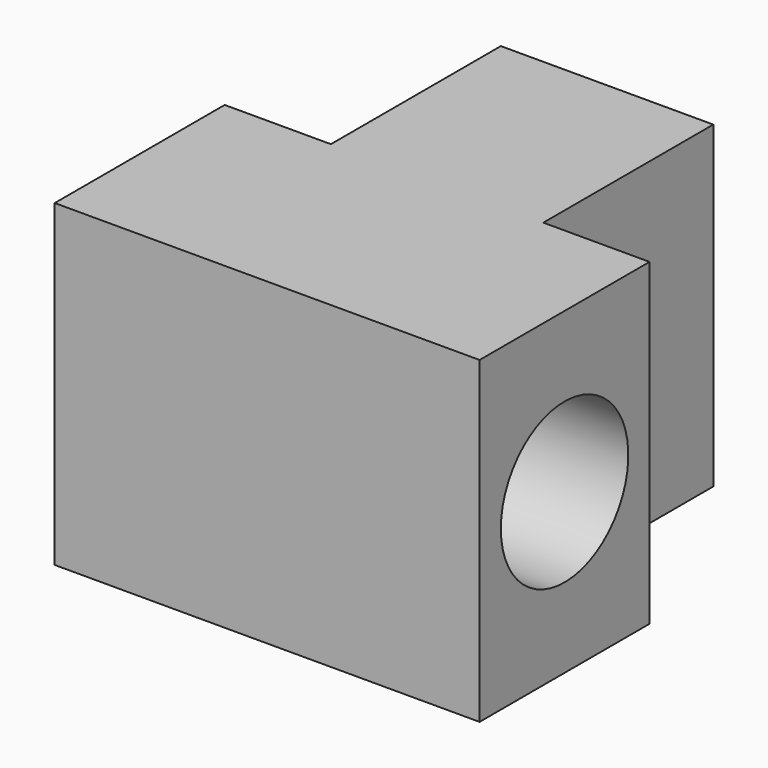
from build123d import *

# Parameters (mm, degrees)
F1_DEPTH = 38.1
F2_R     = 19.05
F3_DEPTH = 101.6


with BuildPart() as f1:
    # F0 (on Top) → F1 (new body, symmetric)
    with BuildSketch(Plane.XY):
        Polygon((0, 25.4), (25.4, 25.4), (25.4, 76.2), (-25.4, 76.2), (-25.4, 25.4), align=None)
        Polygon((-50.8, -25.4), (50.8, -25.4), (50.8, 25.4), (25.4, 25.4), (0, 25.4), (-25.4, 25.4), (-50.8, 25.4), align=None)
    extrude(amount=F1_DEPTH, both=True)

    # F2 (on face) → F3 (cut, through all)
    with BuildSketch(Plane(origin=(-50.8, 0, 0), x_dir=(0, -1, 0), z_dir=(-1, 0, 0))):
        Circle(F2_R)
    extrude(amount=-F3_DEPTH, mode=Mode.SUBTRACT)


solid = f1.part
